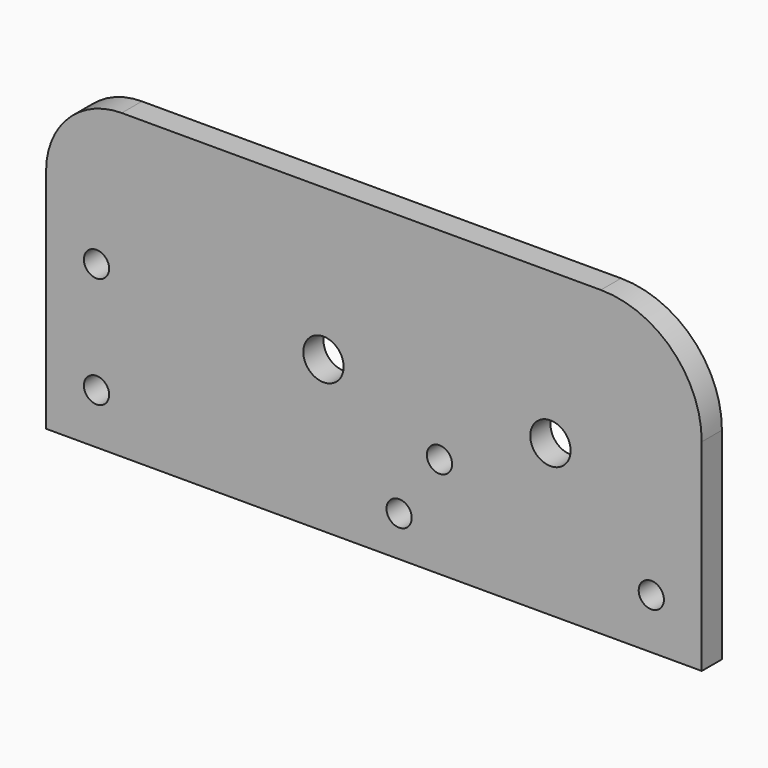
from build123d import *

# Parameters (mm, degrees)
F0_R     = 2.5
F0_R_2   = 4
F1_DEPTH = 5


with BuildPart() as f1:
    # F0 (on Front) → F1 (new body)
    with BuildSketch(Plane.XZ):
        with BuildLine():
            Line((0, 45), (0, 0))
            Line((0, 0), (130, 0))
            Line((130, 0), (130, 40))
            ThreePointArc((130, 40), (124.142136, 54.142136), (110, 60))
            Line((110, 60), (15, 60))
            ThreePointArc((15, 60), (4.393398, 55.606602), (0, 45))
        make_face()
        with Locations((10, 10)):
            Circle(F0_R, mode=Mode.SUBTRACT)
        with Locations((70, 8)):
            Circle(F0_R, mode=Mode.SUBTRACT)
        with Locations((120, 10)):
            Circle(F0_R, mode=Mode.SUBTRACT)
        with Locations((78, 20)):
            Circle(F0_R, mode=Mode.SUBTRACT)
        with Locations((10, 32)):
            Circle(F0_R, mode=Mode.SUBTRACT)
        with Locations((55, 30)):
            Circle(F0_R_2, mode=Mode.SUBTRACT)
        with Locations((100, 30)):
            Circle(F0_R_2, mode=Mode.SUBTRACT)
    extrude(amount=F1_DEPTH)


solid = f1.part
